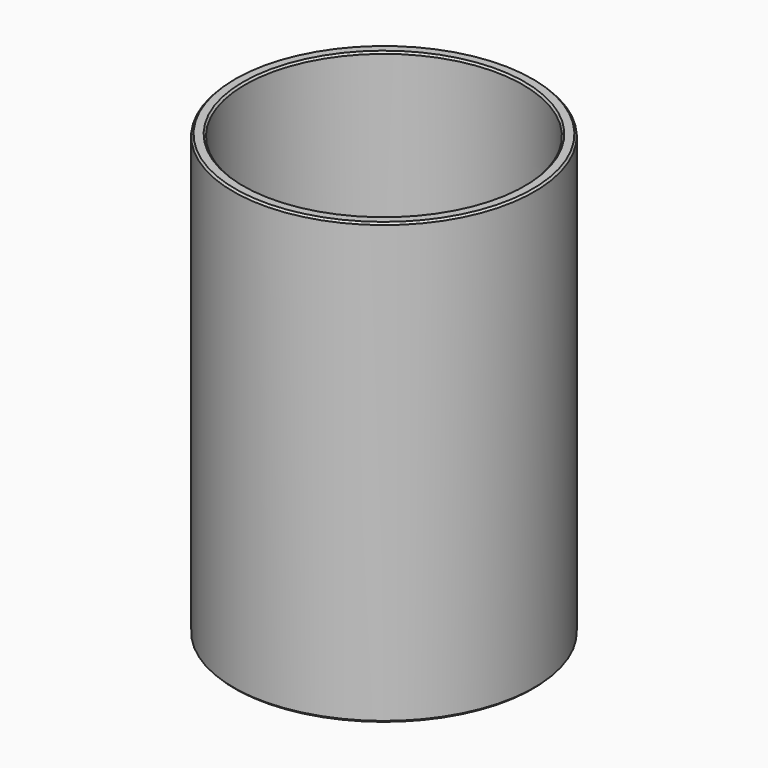
from build123d import *

# Parameters (mm, degrees)
F0_W    = 1.5875
F0_H    = 60.325
F2_SIZE = 0.254


with BuildPart() as f1:
    # F0 (on Front) → F1 (revolve)
    with BuildSketch(Plane.XZ):
        with Locations((-19.84375, 30.1625)):
            Rectangle(F0_W, F0_H)
    revolve(axis=Axis((0, 0, 30.270437), (0, 0, 1)))

    # F2
    f2_edges = [f1.edges().sort_by_distance(p)[0] for p in [
        (19.05, 0, 60.325),
        (20.6375, 0, 60.325),
        (19.05, 0, 0),
        (20.6375, 0, 0),
    ]]
    chamfer(f2_edges, length=F2_SIZE)


solid = f1.part
